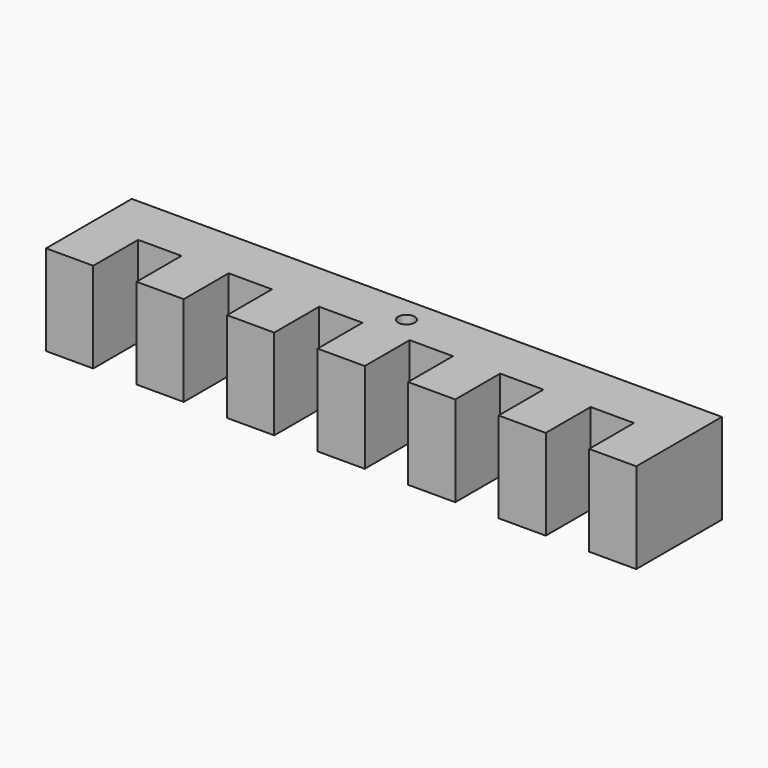
from build123d import *

# Parameters (mm, degrees)
F0_R     = 1.651
F1_DEPTH = 18.034


with BuildPart() as f1:
    # F0 (on Top) → F1 (new body)
    with BuildSketch(Plane.XY):
        Polygon((70.612, 0), (-46.99, 0), (-46.99, -21.336), (-37.592, -21.336), (-37.592, -10.16), (-28.956, -10.16), (-28.956, -21.336), (-19.558, -21.336), (-19.558, -10.16), (-10.922, -10.16), (-10.922, -21.336), (-1.524, -21.336), (-1.524, -10.16), (7.112, -10.16), (7.112, -21.336), (16.51, -21.336), (16.51, -10.16), (25.146, -10.16), (25.146, -21.336), (34.544, -21.336), (34.544, -10.16), (43.18, -10.16), (43.18, -21.336), (52.578, -21.336), (52.578, -10.16), (61.214, -10.16), (61.214, -21.336), (70.612, -21.336), align=None)
        with Locations((11.810999, -5.08)):
            Circle(F0_R, mode=Mode.SUBTRACT)
    extrude(amount=F1_DEPTH)


solid = f1.part
